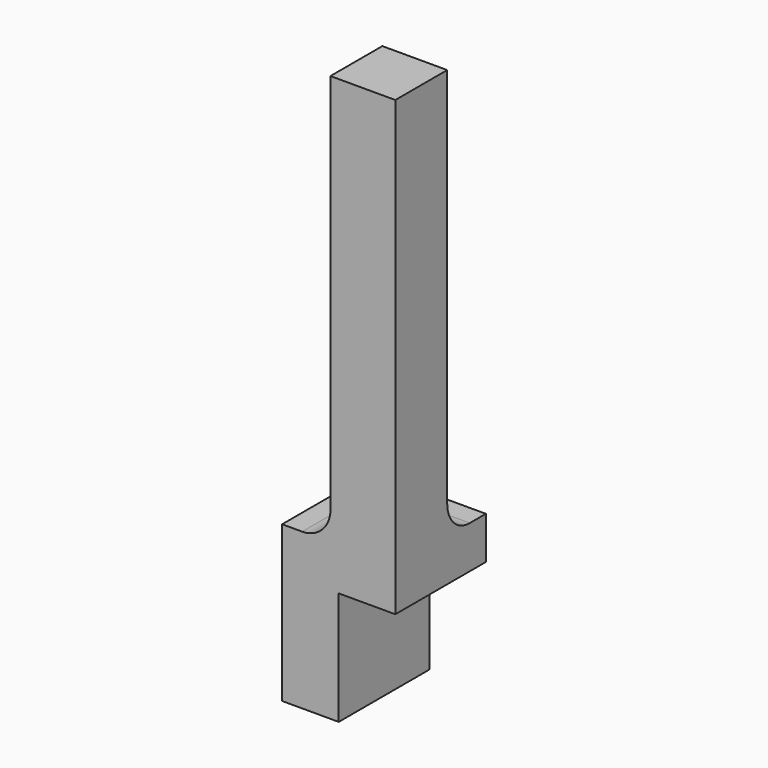
from build123d import *

# Parameters (mm, degrees)
F0_W      = 50.8
F0_H      = 50.8
F1_DEPTH  = 254
F3_DEPTH  = 50.801
F5_DEPTH  = 50.801
F6_R      = 12.7
F7_DEPTH  = 25.4
F8_W      = 25.4
F8_H      = 50.8
F9_DEPTH  = 50.801
F10_R     = 4.8895
F11_DEPTH = 69.851


with BuildPart() as f1:
    # F0 (on Top) → F1 (new body)
    with BuildSketch(Plane.XY):
        with Locations((-25.4, 25.4)):
            Rectangle(F0_W, F0_H)
    extrude(amount=F1_DEPTH)

    # F2 (on face) → F3 (cut, through all)
    with BuildSketch(Plane(origin=(-50.8, 0, 0), x_dir=(0, -1, 0), z_dir=(-1, 0, 0))):
        with BuildLine():
            Line((-50.8, 254), (-50.8, 69.85))
            Line((-50.8, 69.85), (-41.8197438789, 69.85))
            ThreePointArc((-41.8197438789, 69.85), (-32.8394877579, 73.5697438789), (-29.1197438789, 82.55))
            Line((-29.1197438789, 82.55), (-29.1197438789, 254))
            Line((-29.1197438789, 254), (-50.8, 254))
        make_face()
    extrude(amount=-F3_DEPTH, mode=Mode.SUBTRACT)

    # F4 (on face) → F5 (cut, through all)
    with BuildSketch(Plane(origin=(0, 50.8, 0), x_dir=(-1, 0, 0), z_dir=(0, 1, 0))):
        with BuildLine():
            ThreePointArc((29.1197438789, 82.55), (32.8394877579, 73.5697438789), (41.8197438789, 69.85))
            Line((41.8197438789, 69.85), (50.8, 69.85))
            Line((50.8, 69.85), (50.8, 254))
            Line((50.8, 254), (29.1197438789, 254))
            Line((29.1197438789, 254), (29.1197438789, 82.55))
        make_face()
    extrude(amount=-F5_DEPTH, mode=Mode.SUBTRACT)

    # F6 (on face) → F7 (cut)
    with BuildSketch(Plane.XY.offset(69.85)):
        with Locations((-38.1, 38.1)):
            Circle(F6_R)
    extrude(amount=F7_DEPTH, mode=Mode.SUBTRACT)

    # F8 (on face) → F9 (cut, through all)
    with BuildSketch(Plane.XZ):
        with Locations((-12.7, 25.4)):
            Rectangle(F8_W, F8_H)
    extrude(amount=-F9_DEPTH, mode=Mode.SUBTRACT)

    # F10 (on face) → F11 (cut, through all)
    with BuildSketch(Plane.XY.offset(69.85)):
        with Locations((-38.1, 38.1)):
            Circle(F10_R)
    extrude(amount=-F11_DEPTH, mode=Mode.SUBTRACT)


solid = f1.part
